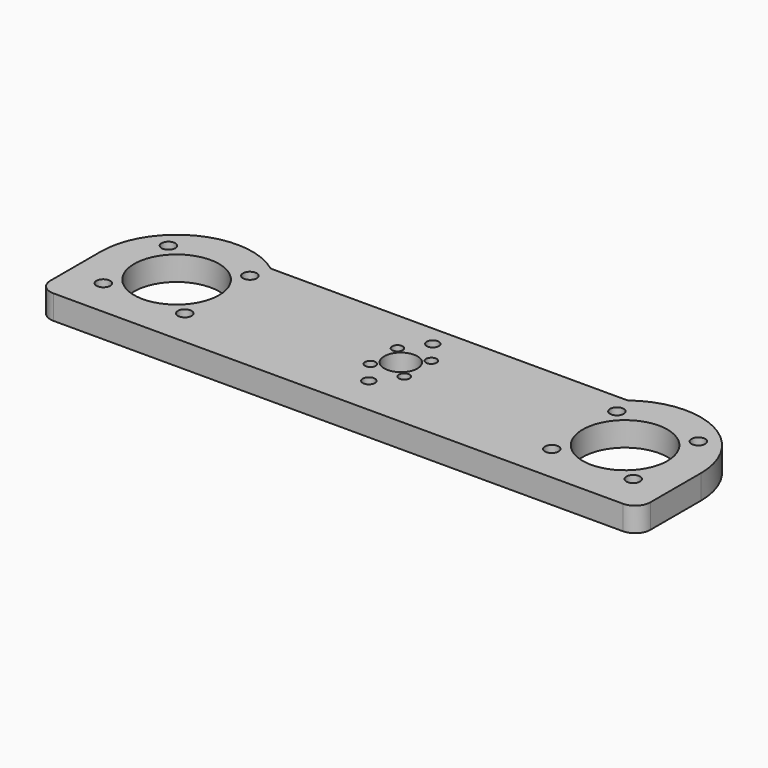
from build123d import *

# Parameters (mm, degrees)
F0_R     = 2.265
F0_R_2   = 1.75
F0_R_3   = 2
F0_R_4   = 14
F0_R_5   = 5.475
F1_DEPTH = 8


with BuildPart() as f1:
    # F0 (on Top) → F1 (new body)
    with BuildSketch(Plane.XY):
        with BuildLine():
            ThreePointArc((-57.51782, 1.503936), (-57.830224, 1.553986), (-58.111356, 1.699128))
            ThreePointArc((-58.111356, 1.699128), (-84.220067, 3.894399), (-97.949748, -18.421064))
            Line((-97.949748, -18.421064), (-97.949748, -39.266064))
            ThreePointArc((-97.949748, -39.266064), (-96.485281, -42.801598), (-92.949748, -44.266064))
            Line((-92.949748, -44.266064), (-84.717208, -44.266064))
            Line((-84.717208, -44.266064), (86.817713, -44.266064))
            Line((86.817713, -44.266064), (95.050252, -44.266064))
            ThreePointArc((95.050252, -44.266064), (98.585786, -42.801598), (100.050252, -39.266064))
            Line((100.050252, -39.266064), (100.050252, -18.421064))
            ThreePointArc((100.050252, -18.421064), (86.320572, 3.894399), (60.211861, 1.699128))
            ThreePointArc((60.211861, 1.699128), (59.930729, 1.553986), (59.618325, 1.503936))
            Line((59.618325, 1.503936), (-57.51782, 1.503936))
        make_face()
        with Locations((-86.384776, -31.856093)):
            Circle(F0_R, mode=Mode.SUBTRACT)
        with Locations((-59.514719, -31.856093)):
            Circle(F0_R, mode=Mode.SUBTRACT)
        with Locations((-4.54473, -24.016047)):
            Circle(F0_R_2, mode=Mode.SUBTRACT)
        with Locations((1.050252, -31.621064)):
            Circle(F0_R_3, mode=Mode.SUBTRACT)
        with Locations((61.615224, -31.856093)):
            Circle(F0_R, mode=Mode.SUBTRACT)
        with Locations((88.485281, -31.856093)):
            Circle(F0_R, mode=Mode.SUBTRACT)
        with Locations((6.645235, -24.016047)):
            Circle(F0_R_2, mode=Mode.SUBTRACT)
        with Locations((-72.949748, -18.421064)):
            Circle(F0_R_4, mode=Mode.SUBTRACT)
        with Locations((-4.54473, -12.826082)):
            Circle(F0_R_2, mode=Mode.SUBTRACT)
        with Locations((-86.384776, -4.986036)):
            Circle(F0_R, mode=Mode.SUBTRACT)
        with Locations((-59.514719, -4.986036)):
            Circle(F0_R, mode=Mode.SUBTRACT)
        with Locations((1.050252, -18.421064)):
            Circle(F0_R_5, mode=Mode.SUBTRACT)
        with Locations((6.645235, -12.826082)):
            Circle(F0_R_2, mode=Mode.SUBTRACT)
        with Locations((75.050252, -18.421064)):
            Circle(F0_R_4, mode=Mode.SUBTRACT)
        with Locations((1.050252, -5.221064)):
            Circle(F0_R_3, mode=Mode.SUBTRACT)
        with Locations((61.615224, -4.986036)):
            Circle(F0_R, mode=Mode.SUBTRACT)
        with Locations((88.485281, -4.986036)):
            Circle(F0_R, mode=Mode.SUBTRACT)
    extrude(amount=F1_DEPTH)


solid = f1.part
